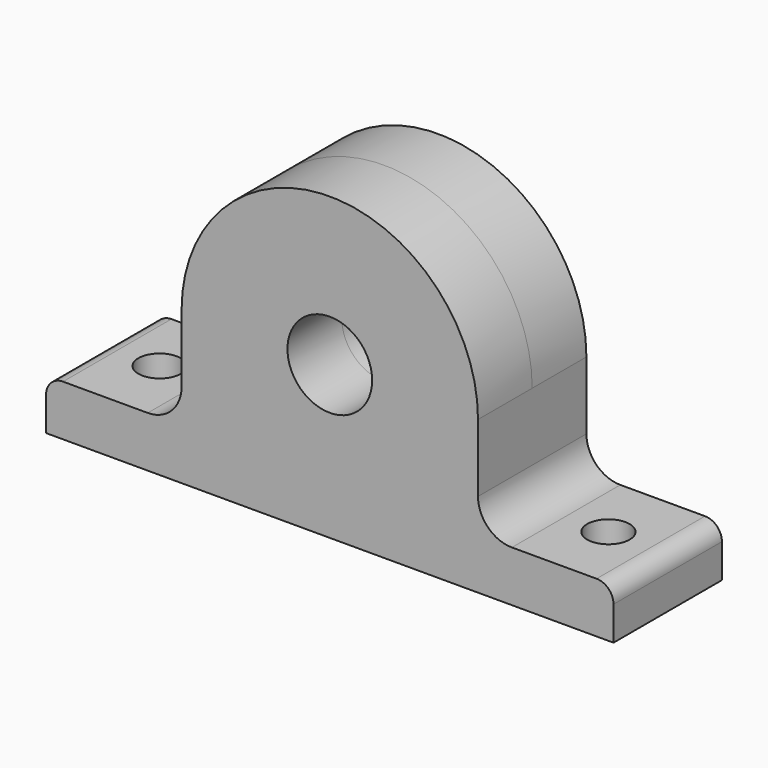
from build123d import *

# Parameters (mm, degrees)
F1_DEPTH = 8
F2_R     = 17.5
F2_R_2   = 5
F3_DEPTH = 8
F4_DEPTH = 8
F6_D     = 5


with BuildPart() as f1:
    # F0 (on Front) → F1 (new body, symmetric)
    with BuildSketch(Plane.XZ):
        with BuildLine():
            Line((17.5, -8), (17.5, 0))
            ThreePointArc((17.5, 0), (0, -17.5), (-17.5, 0))
            Line((-17.5, 0), (-17.5, -8))
            ThreePointArc((-17.5, -8), (-18.671573, -10.828427), (-21.5, -12))
            Line((-21.5, -12), (-31.5, -12))
            ThreePointArc((-31.5, -12), (-32.914214, -12.585786), (-33.5, -14))
            Line((-33.5, -14), (-33.5, -18))
            Line((-33.5, -18), (33.5, -18))
            Line((33.5, -18), (33.5, -14))
            ThreePointArc((33.5, -14), (32.914214, -12.585786), (31.5, -12))
            Line((31.5, -12), (21.5, -12))
            ThreePointArc((21.5, -12), (18.671573, -10.828427), (17.5, -8))
        make_face()
    extrude(amount=F1_DEPTH, both=True)

    # F2 (on Front) → F3 (join)
    with BuildSketch(Plane.XZ):
        Circle(F2_R)
        Circle(F2_R_2, mode=Mode.SUBTRACT)
    extrude(amount=F3_DEPTH)

    # F2 (on Front) → F4 (join)
    with BuildSketch(Plane.XZ):
        Circle(F2_R)
        Circle(F2_R_2, mode=Mode.SUBTRACT)
    extrude(amount=-F4_DEPTH)

    # F6 (through all)
    with Locations(Plane.XY):
        with Locations((-26.5, 0), (26.5, 0)):
            Hole(F6_D / 2)


solid = f1.part
